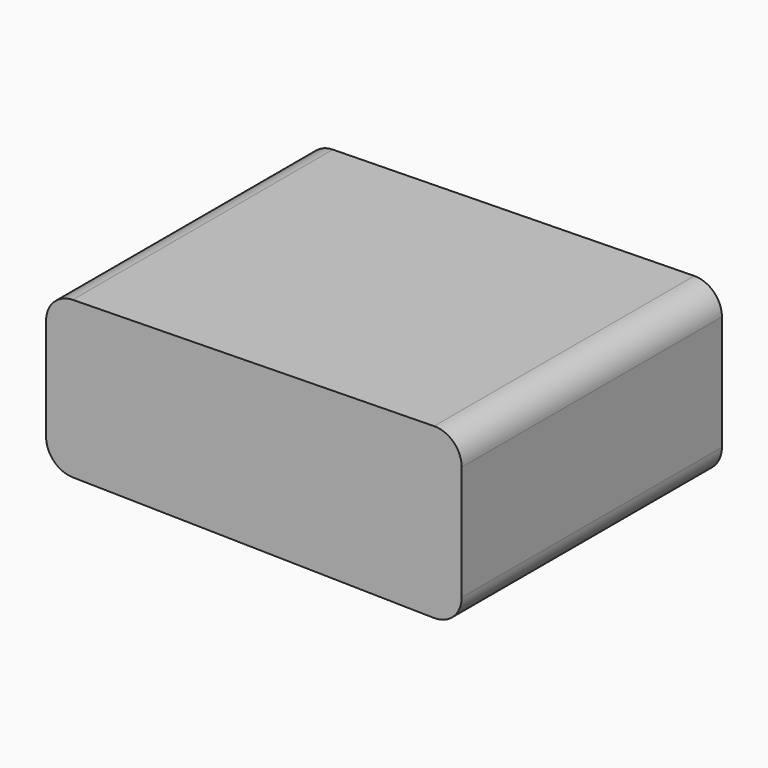
from build123d import *

# Parameters (mm, degrees)
F1_DEPTH = 9


with BuildPart() as f1:
    # F0 (on Front) → F1 (new body, symmetric)
    with BuildSketch(Plane.XZ):
        with BuildLine():
            Line((-11.5, 2.825221), (-11.5, -2.825221))
            ThreePointArc((-11.5, -2.825221), (-11.069876, -3.876585), (-10.026179, -4.324992))
            Line((-10.026179, -4.324992), (9.973821, -4.674094))
            ThreePointArc((9.973821, -4.674094), (11.051364, -4.244198), (11.5, -3.174322))
            Line((11.5, -3.174322), (11.5, 3.174322))
            ThreePointArc((11.5, 3.174322), (11.051364, 4.244198), (9.973821, 4.674094))
            Line((9.973821, 4.674094), (-10.026179, 4.324992))
            ThreePointArc((-10.026179, 4.324992), (-11.069876, 3.876585), (-11.5, 2.825221))
        make_face()
    extrude(amount=F1_DEPTH, both=True)


solid = f1.part
